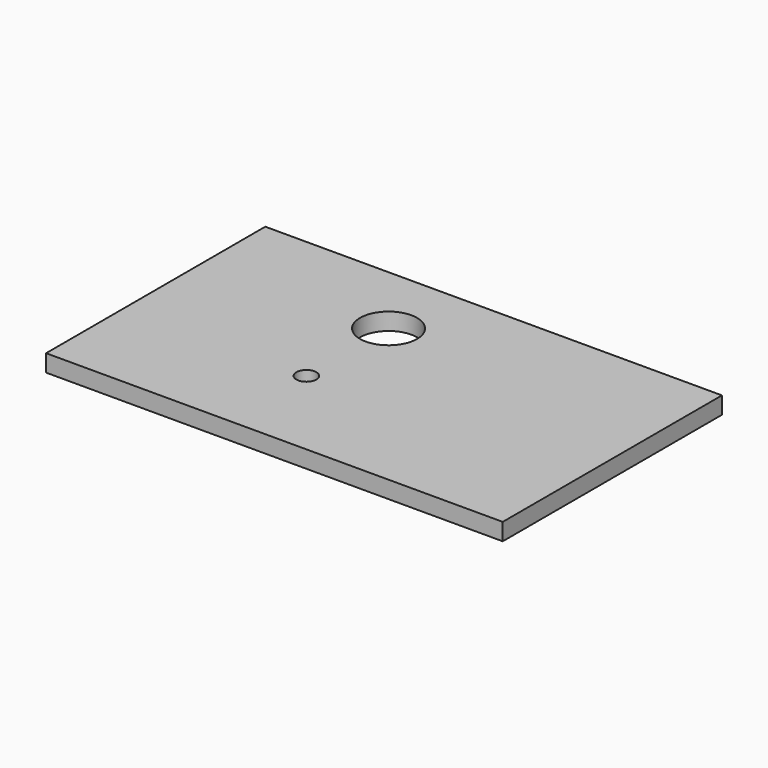
from build123d import *

# Parameters (mm, degrees)
F0_W     = 80
F0_H     = 48
F0_R     = 1.75
F0_R_2   = 5
F1_DEPTH = 3


with BuildPart() as f1:
    # F0 (on Top) → F1 (new body)
    with BuildSketch(Plane.XY):
        Rectangle(F0_W, F0_H)
        with Locations((-8, -7)):
            Circle(F0_R, mode=Mode.SUBTRACT)
        with Locations((-8, 11)):
            Circle(F0_R_2, mode=Mode.SUBTRACT)
    extrude(amount=F1_DEPTH)


solid = f1.part
